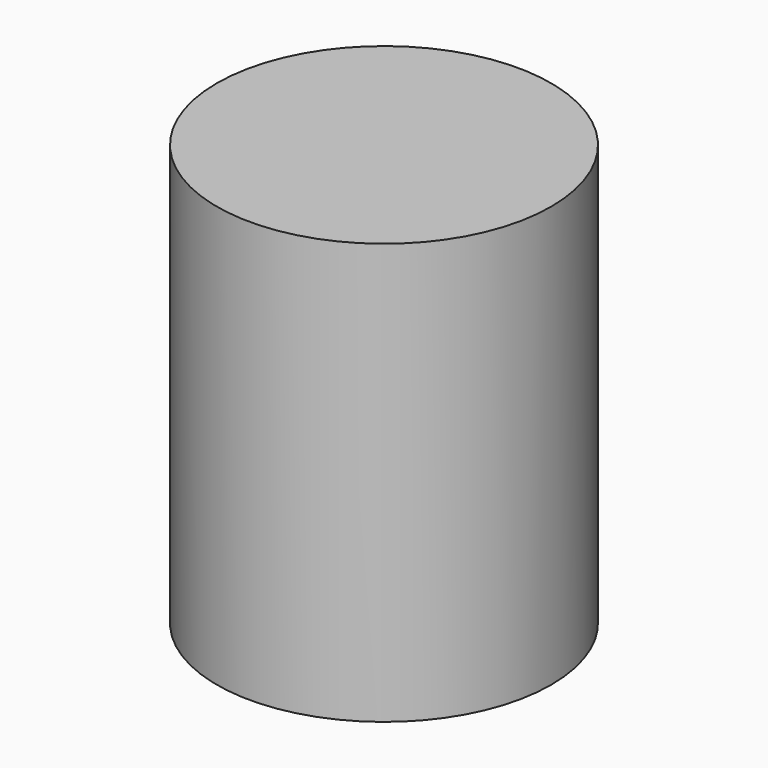
from build123d import *

# Parameters (mm, degrees)
CYLINDER_R     = 5.9563
CYLINDER_DEPTH = 15


with BuildPart() as part:
    # Cylinder → Cylinder (new body)
    with BuildSketch(Plane.XY.offset(-2.5)):
        Circle(CYLINDER_R)
    extrude(amount=CYLINDER_DEPTH)


solid = part.part
